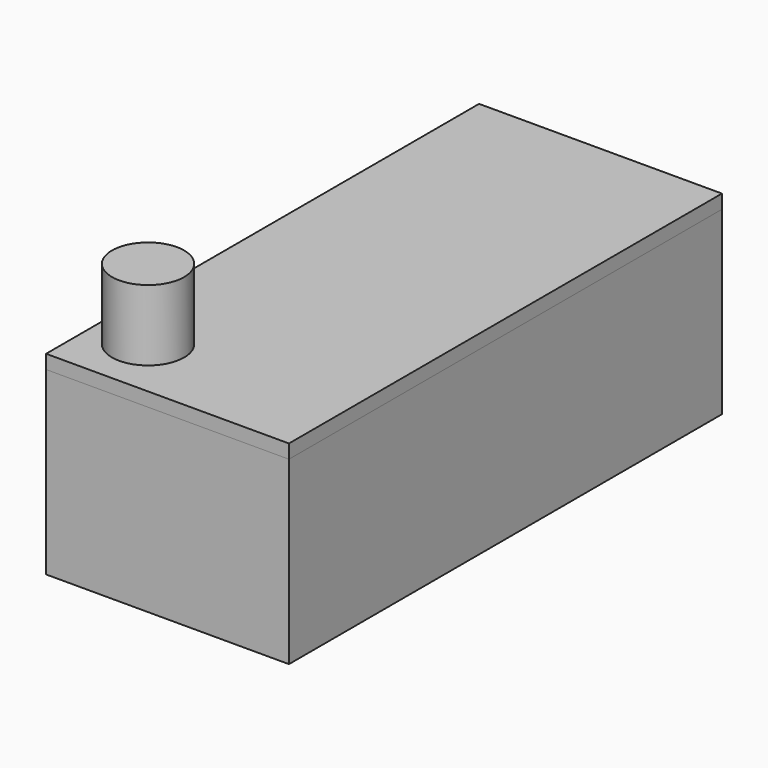
from build123d import *

# Parameters (mm, degrees)
F0_W      = 35
F0_H      = 78
F1_DEPTH  = 2
F2_W      = 35
F2_H      = 78
F2_W_2    = 31
F2_H_2    = 74
F3_DEPTH  = 24
F4_W      = 1
F4_H      = 60
F4_W_2    = 21.910824
F4_H_2    = 5
F5_DEPTH  = 4
F6_W      = 15
F6_H      = 9
F7_DEPTH  = 2
F8_W      = 35
F8_H      = 78
F9_DEPTH  = 2
F10_W     = 30.6
F10_H     = 73.6
F10_W_2   = 28.2
F10_H_2   = 71.2
F11_DEPTH = 5
F12_R     = 5.2
F12_R_2   = 4
F13_DEPTH = 9
F14_R     = 5.2
F15_DEPTH = 1.2
F16_R     = 4
F17_DEPTH = 2
F18_W     = 15
F18_H     = 9
F19_DEPTH = 1.2


with BuildPart() as f1:
    # F0 (on Top) → F1 (new body)
    with BuildSketch(Plane.XY):
        Rectangle(F0_W, F0_H)
    extrude(amount=F1_DEPTH)

    # F2 (on face) → F3 (join)
    with BuildSketch(Plane.XY.offset(2)):
        Rectangle(F2_W, F2_H)
        Rectangle(F2_W_2, F2_H_2, mode=Mode.SUBTRACT)
    extrude(amount=F3_DEPTH)

    # F4 (on face) → F5 (join)
    with BuildSketch(Plane.XY.offset(2)):
        with Locations((-14.5, 0)):
            Rectangle(F4_W, F4_H)
        with Locations((14.5, 0)):
            Rectangle(F4_W, F4_H)
        with Locations((0, -34.5)):
            Rectangle(F4_W_2, F4_H_2)
    extrude(amount=F5_DEPTH)

    # F6 (on face) → F7 (cut, through all)
    with BuildSketch(Plane.XZ.offset(-37)):
        with Locations((0, 18.5)):
            Rectangle(F6_W, F6_H)
    extrude(amount=-F7_DEPTH, mode=Mode.SUBTRACT)


with BuildPart() as f9:
    # F8 (on face) → F9 (new body)
    with BuildSketch(Plane.XY.offset(26)):
        Rectangle(F8_W, F8_H)
    extrude(amount=F9_DEPTH)

    # F10 (on face) → F11 (join)
    with BuildSketch(Plane(origin=(0, 0, 26), x_dir=(1, 0, 0), z_dir=(0, 0, -1))):
        Rectangle(F10_W, F10_H)
        Rectangle(F10_W_2, F10_H_2, mode=Mode.SUBTRACT)
    extrude(amount=F11_DEPTH)

    # F12 (on face) → F13 (join)
    with BuildSketch(Plane.XY.offset(28)):
        with Locations((-10, -30)):
            Circle(F12_R)
        with Locations((-10, -30)):
            Circle(F12_R_2, mode=Mode.SUBTRACT)
    extrude(amount=F13_DEPTH)

    # F14 (on face) → F15 (join)
    with BuildSketch(Plane.XY.offset(37)):
        with Locations((-10, -30)):
            Circle(F14_R)
    extrude(amount=F15_DEPTH)

    # F16 (on face) → F17 (cut, through all)
    with BuildSketch(Plane(origin=(0, 0, 26), x_dir=(1, 0, 0), z_dir=(0, 0, -1))):
        with Locations((-10, 30)):
            Circle(F16_R)
    extrude(amount=-F17_DEPTH, mode=Mode.SUBTRACT)

    # F18 (on face) → F19 (cut, through all)
    with BuildSketch(Plane(origin=(0, 36.8, 0), x_dir=(-1, 0, 0), z_dir=(0, 1, 0))):
        with Locations((0, 18.5)):
            Rectangle(F18_W, F18_H)
    extrude(amount=-F19_DEPTH, mode=Mode.SUBTRACT)


solid = Compound([f1.part, f9.part])
